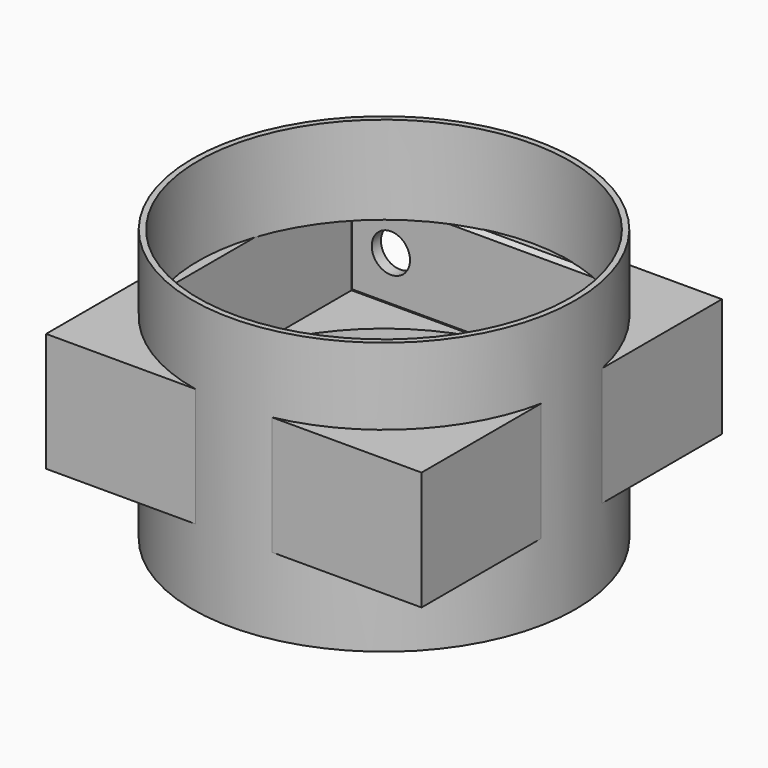
from build123d import *

# Parameters (mm, degrees)
SKETCH_R        = 50
PAD_DEPTH       = 51
SKETCH004_W     = 98
SKETCH004_H     = 98
PAD001_DEPTH    = 31
SKETCH005_R     = 50
PAD002_DEPTH    = 23
SKETCH006_R     = 48.5
POCKET001_DEPTH = 23
SKETCH007_W     = 92
SKETCH007_H     = 92
POCKET002_DEPTH = 25
SKETCH008_R     = 48.5
POCKET_DEPTH    = 23
SKETCH009_W     = 92
SKETCH009_H     = 25
POCKET003_DEPTH = 3
POCKET005_DEPTH = 1.001
SKETCH010_W     = 92.2
SKETCH010_H     = 25.2
PAD003_DEPTH    = 3
SKETCH011_R     = 5
POCKET004_DEPTH = 3
CHAMFER_SIZE    = 1
SKETCH012_R     = 5
PAD004_DEPTH    = 5
SKETCH013_R     = 7.5
PAD005_DEPTH    = 3
FILLET_R        = 2.4
FILLET001_R     = 1
FILLET002_R     = 1


with BuildPart() as body:
    # Sketch → Pad (new body)
    with BuildSketch(Plane.XY):
        Circle(SKETCH_R)
    extrude(amount=PAD_DEPTH)

    # Sketch004 (on DatumPlane) → Pad001 (join)
    with BuildSketch(Plane.XY.offset(20)):
        Rectangle(SKETCH004_W, SKETCH004_H)
    extrude(amount=PAD001_DEPTH)

    # Sketch005 (on DatumPlane) → Pad002 (join)
    with BuildSketch(Plane.XY.offset(48)):
        Circle(SKETCH005_R)
    extrude(amount=PAD002_DEPTH)

    # Sketch006 (on DatumPlane) → Pocket001 (cut)
    with BuildSketch(Plane.XY.offset(48)):
        Circle(SKETCH006_R)
    extrude(amount=POCKET001_DEPTH, mode=Mode.SUBTRACT)

    # Sketch007 (on DatumPlane) → Pocket002 (cut)
    with BuildSketch(Plane.XY.offset(23)):
        Rectangle(SKETCH007_W, SKETCH007_H)
    extrude(amount=POCKET002_DEPTH, mode=Mode.SUBTRACT)

    # Sketch008 (on Face1 of Pocket002) → Pocket (cut)
    with BuildSketch(Plane(origin=(0, 0, 0), x_dir=(1, 0, 0), z_dir=(0, 0, -1))):
        Circle(SKETCH008_R)
    extrude(amount=-POCKET_DEPTH, mode=Mode.SUBTRACT)

    # Sketch009 (on Face9 of Pocket) → Pocket003 (cut)
    with BuildSketch(Plane(origin=(0, 49, 0), x_dir=(-1, 0, 0), z_dir=(0, 1, 0))):
        with Locations((0, 35.5)):
            Rectangle(SKETCH009_W, SKETCH009_H)
    extrude(amount=-POCKET003_DEPTH, mode=Mode.SUBTRACT)

    # Sketch009 (on Face9 of Pocket) → Pocket005 (cut, through all)
    with BuildSketch(Plane(origin=(0, 49, 0), x_dir=(-1, 0, 0), z_dir=(0, 1, 0))):
        with Locations((0, 35.5)):
            Rectangle(SKETCH009_W, SKETCH009_H)
    extrude(amount=POCKET005_DEPTH, mode=Mode.SUBTRACT)


with BuildPart() as lid:
    # Sketch010 (on DatumPlane) → Pad003 (new body)
    with BuildSketch(Plane.XZ.offset(-49)):
        with Locations((0, 35.5)):
            Rectangle(SKETCH010_W, SKETCH010_H)
    extrude(amount=PAD003_DEPTH)

    # Sketch011 (on Face5 of Pad003) → Pocket004 (cut)
    with BuildSketch(Plane(origin=(0, 49, 0), x_dir=(1, 0, 0), z_dir=(0, 1, 0))):
        with Locations((-35, -35.5)):
            Circle(SKETCH011_R)
    extrude(amount=-POCKET004_DEPTH, mode=Mode.SUBTRACT)

    # Chamfer
    chamfer_edges = [lid.edges().sort_by_distance(p)[0] for p in [
        (46.1, 46, 35.5),
        (0, 46, 48.1),
        (-46.1, 46, 35.5),
        (0, 46, 22.9),
    ]]
    chamfer(chamfer_edges, length=CHAMFER_SIZE)

    # Sketch012 (on Face4 of Pocket004) → Pad004 (join)
    with BuildSketch(Plane(origin=(0, 49, 0), x_dir=(1, 0, 0), z_dir=(0, 1, 0))):
        with Locations((0, -35.5)):
            Circle(SKETCH012_R)
    extrude(amount=PAD004_DEPTH)

    # Sketch013 (on Face13 of Pad004) → Pad005 (join)
    with BuildSketch(Plane(origin=(0, 54, 0), x_dir=(1, 0, 0), z_dir=(0, 1, 0))):
        with Locations((0, -35.5)):
            Circle(SKETCH013_R)
    extrude(amount=PAD005_DEPTH)

    # Fillet
    fillet_edges = [lid.edges().sort_by_distance(p)[0] for p in [
        (-7.5, 54, 35.5),
    ]]
    fillet(fillet_edges, radius=FILLET_R)

    # Fillet001
    fillet001_edges = [lid.edges().sort_by_distance(p)[0] for p in [
        (-7.5, 57, 35.5),
    ]]
    fillet(fillet001_edges, radius=FILLET001_R)

    # Fillet002
    fillet002_edges = [lid.edges().sort_by_distance(p)[0] for p in [
        (-5, 49, 35.5),
    ]]
    fillet(fillet002_edges, radius=FILLET002_R)


solid = Compound([body.part, lid.part])
